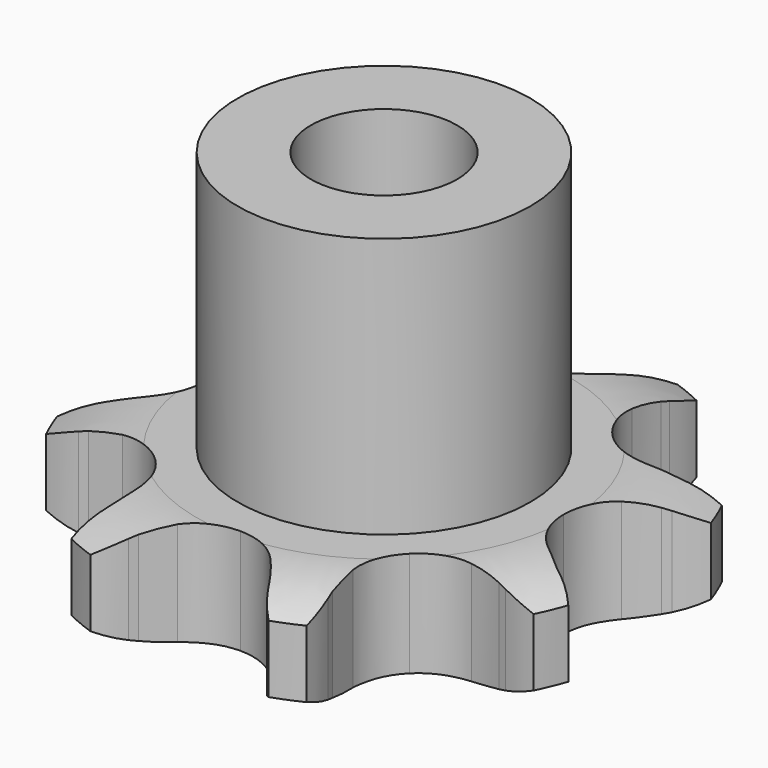
from build123d import *

# Parameters (mm, degrees)
PAD_DEPTH         = 7.2
SKETCH001_R       = 10
PAD001_DEPTH      = 25
SKETCH002_R       = 5
POCKET_DEPTH      = 0.001
POCKET_DEPTH_BACK = -25.001


with BuildPart() as part:
    # Sprocket → Pad (new body)
    with BuildSketch(Plane.XY):
        with BuildLine():
            ThreePointArc((-7.691496, 18.568914), (-6.037547, 17.419326), (-4.759071, 15.862856))
            Line((-4.759071, 15.862856), (-4.464, 15.381343))
            ThreePointArc((-4.464, 15.381343), (-3.86334, 14.499155), (-3.180891, 13.6786))
            ThreePointArc((-3.180891, 13.6786), (-1.7376, 12.644353), (0, 12.278975))
            ThreePointArc((0, 12.278975), (1.7376, 12.644353), (3.180891, 13.6786))
            ThreePointArc((3.180891, 13.6786), (3.86334, 14.499155), (4.464, 15.381343))
            Line((4.464, 15.381343), (4.759071, 15.862856))
            ThreePointArc((4.759071, 15.862856), (6.037547, 17.419326), (7.691496, 18.568914))
            ThreePointArc((7.691496, 18.568914), (8.048133, 16.586514), (7.851562, 14.581905))
            Line((7.851562, 14.581905), (7.719727, 14.032776))
            ThreePointArc((7.719727, 14.032776), (7.520658, 12.984245), (7.423001, 11.92146))
            ThreePointArc((7.423001, 11.92146), (7.712239, 10.169576), (8.682546, 8.682546))
            ThreePointArc((8.682546, 8.682546), (10.169576, 7.712239), (11.92146, 7.423001))
            Line((11.92146, 7.423001), (14.032776, 7.719727))
            ThreePointArc((14.032776, 7.719727), (14.306504, 7.78913), (14.581905, 7.851562))
            ThreePointArc((14.581905, 7.851562), (16.586514, 8.048133), (18.568914, 7.691496))
            ThreePointArc((18.568914, 7.691496), (17.419326, 6.037547), (15.862856, 4.759071))
            Line((15.862856, 4.759071), (15.381343, 4.464))
            ThreePointArc((15.381343, 4.464), (14.499155, 3.86334), (13.6786, 3.180891))
            ThreePointArc((13.6786, 3.180891), (12.644353, 1.7376), (12.278975, 0))
            ThreePointArc((12.278975, 0), (12.644353, -1.7376), (13.6786, -3.180891))
            Line((13.6786, -3.180891), (15.381343, -4.464))
            ThreePointArc((15.381343, -4.464), (15.623973, -4.608479), (15.862856, -4.759071))
            ThreePointArc((15.862856, -4.759071), (17.419326, -6.037547), (18.568914, -7.691496))
            ThreePointArc((18.568914, -7.691496), (16.586514, -8.048133), (14.581905, -7.851562))
            Line((14.581905, -7.851562), (14.032776, -7.719727))
            ThreePointArc((14.032776, -7.719727), (12.984245, -7.520658), (11.92146, -7.423001))
            ThreePointArc((11.92146, -7.423001), (10.169576, -7.712239), (8.682546, -8.682546))
            ThreePointArc((8.682546, -8.682546), (7.712239, -10.169576), (7.423001, -11.92146))
            Line((7.423001, -11.92146), (7.719727, -14.032776))
            ThreePointArc((7.719727, -14.032776), (7.78913, -14.306504), (7.851562, -14.581905))
            ThreePointArc((7.851562, -14.581905), (8.048133, -16.586514), (7.691496, -18.568914))
            ThreePointArc((7.691496, -18.568914), (6.037547, -17.419326), (4.759071, -15.862856))
            Line((4.759071, -15.862856), (4.464, -15.381343))
            ThreePointArc((4.464, -15.381343), (3.86334, -14.499155), (3.180891, -13.6786))
            ThreePointArc((3.180891, -13.6786), (1.7376, -12.644353), (0, -12.278975))
            ThreePointArc((0, -12.278975), (-1.7376, -12.644353), (-3.180891, -13.6786))
            Line((-3.180891, -13.6786), (-4.464, -15.381343))
            ThreePointArc((-4.464, -15.381343), (-4.608479, -15.623973), (-4.759071, -15.862856))
            ThreePointArc((-4.759071, -15.862856), (-6.037547, -17.419326), (-7.691496, -18.568914))
            ThreePointArc((-7.691496, -18.568914), (-8.048133, -16.586514), (-7.851562, -14.581905))
            Line((-7.851562, -14.581905), (-7.719727, -14.032776))
            ThreePointArc((-7.719727, -14.032776), (-7.520658, -12.984245), (-7.423001, -11.92146))
            ThreePointArc((-7.423001, -11.92146), (-7.712239, -10.169576), (-8.682546, -8.682546))
            ThreePointArc((-8.682546, -8.682546), (-10.169576, -7.712239), (-11.92146, -7.423001))
            Line((-11.92146, -7.423001), (-14.032776, -7.719727))
            ThreePointArc((-14.032776, -7.719727), (-14.306504, -7.78913), (-14.581905, -7.851562))
            ThreePointArc((-14.581905, -7.851562), (-16.586514, -8.048133), (-18.568914, -7.691496))
            ThreePointArc((-18.568914, -7.691496), (-17.419326, -6.037547), (-15.862856, -4.759071))
            Line((-15.862856, -4.759071), (-15.381343, -4.464))
            ThreePointArc((-15.381343, -4.464), (-14.499155, -3.86334), (-13.6786, -3.180891))
            ThreePointArc((-13.6786, -3.180891), (-12.644353, -1.7376), (-12.278975, 0))
            ThreePointArc((-12.278975, 0), (-12.644353, 1.7376), (-13.6786, 3.180891))
            Line((-13.6786, 3.180891), (-15.381343, 4.464))
            ThreePointArc((-15.381343, 4.464), (-15.623973, 4.608479), (-15.862856, 4.759071))
            ThreePointArc((-15.862856, 4.759071), (-17.419326, 6.037547), (-18.568914, 7.691496))
            ThreePointArc((-18.568914, 7.691496), (-16.586514, 8.048133), (-14.581905, 7.851562))
            Line((-14.581905, 7.851562), (-14.032776, 7.719727))
            ThreePointArc((-14.032776, 7.719727), (-12.984245, 7.520658), (-11.92146, 7.423001))
            ThreePointArc((-11.92146, 7.423001), (-10.169576, 7.712239), (-8.682546, 8.682546))
            ThreePointArc((-8.682546, 8.682546), (-7.712239, 10.169576), (-7.423001, 11.92146))
            Line((-7.423001, 11.92146), (-7.719727, 14.032776))
            ThreePointArc((-7.719727, 14.032776), (-7.78913, 14.306504), (-7.851562, 14.581905))
            ThreePointArc((-7.851562, 14.581905), (-8.048133, 16.586514), (-7.691496, 18.568914))
        make_face()
    extrude(amount=PAD_DEPTH)

    # Sketch → Groove (revolve, cut)
    with BuildSketch(Plane.XZ):
        with BuildLine():
            Line((12.833431, 0), (18.5, 0))
            Line((24.166569, 0), (18.5, 0))
            Line((24.166569, 7.2), (24.166569, 0))
            Line((18.5, 7.2), (24.166569, 7.2))
            Line((12.833431, 7.2), (18.5, 7.2))
            ThreePointArc((18.5, 5.9), (15.74032, 6.870833), (12.833431, 7.2))
            Line((18.5, 1.3), (18.5, 5.9))
            ThreePointArc((12.833431, 0), (15.74032, 0.329167), (18.5, 1.3))
        make_face()
    revolve(axis=Axis((0, 0, 0), (0, 0, 1)), mode=Mode.SUBTRACT)

    # Sketch001 → Pad001 (join)
    with BuildSketch(Plane.XY):
        Circle(SKETCH001_R)
    extrude(amount=PAD001_DEPTH)

    # Sketch002 → Pocket (cut, two sides)
    with BuildSketch(Plane.XY) as pocket_sk:
        Circle(SKETCH002_R)
    extrude(amount=-POCKET_DEPTH, mode=Mode.SUBTRACT)
    extrude(pocket_sk.sketch, amount=-POCKET_DEPTH_BACK, mode=Mode.SUBTRACT)


solid = part.part
